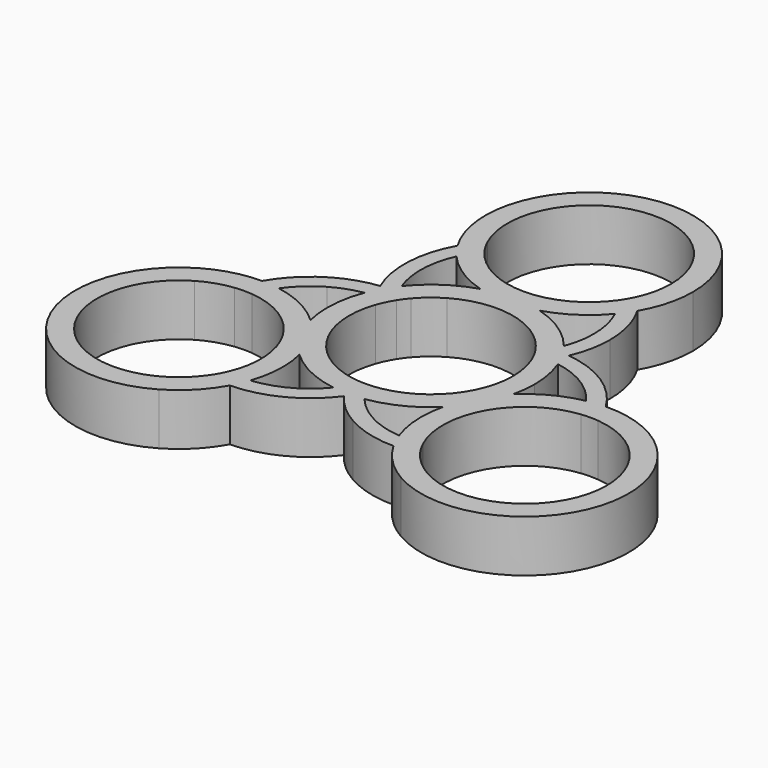
from build123d import *

# Parameters (mm, degrees)
F1_DEPTH = 7
F2_DEPTH = 7
F3_COUNT = 3


with BuildPart() as f1:
    # F0 (on Top) → F1 (new body)
    with BuildSketch(Plane.XY):
        with BuildLine():
            ThreePointArc((11.9814563539, 19.822065477), (13.3904833189, 23.2093401836), (13.8711614234, 26.8463630714))
            Line((13.8711614234, 26.8463630714), (10.9211614234, 26.8463630714))
            ThreePointArc((10.9211614234, 26.8463630714), (10.6899476462, 24.5977268922), (10.0059822983, 22.4431930958))
            ThreePointArc((10.0059822983, 22.4431930958), (11.0715600581, 21.1912957723), (11.9814563539, 19.822065477))
        make_face()
        with BuildLine():
            Line((10.9211614234, 26.8463630714), (13.8711614234, 26.8463630714))
            ThreePointArc((13.8711614234, 26.8463630714), (-0.1288385766, 40.8463630714), (-14.1288385766, 26.8463630714))
            Line((-14.1288385766, 26.8463630714), (-11.1788385766, 26.8463630714))
            ThreePointArc((-11.1788385766, 26.8463630714), (-0.1288385766, 37.8963630714), (10.9211614234, 26.8463630714))
        make_face()
        with BuildLine():
            Line((-11.1788385766, 26.8463630714), (-14.1288385766, 26.8463630714))
            ThreePointArc((-14.1288385766, 26.8463630714), (-13.6141173472, 23.0850791844), (-12.1078019368, 19.6003685354))
            ThreePointArc((-12.1078019368, 19.6003685354), (-11.2232600764, 20.9861133056), (-10.1809036398, 22.2574102536))
            ThreePointArc((-10.1809036398, 22.2574102536), (-10.9264730154, 24.4982594694), (-11.1788385766, 26.8463630714))
        make_face()
        with BuildLine():
            ThreePointArc((13.8638901362, 12.8469559189), (13.3850110996, 16.4592858558), (11.9814563539, 19.822065477))
            ThreePointArc((11.9814563539, 19.822065477), (11.3223593376, 18.7921674983), (10.5759119571, 17.8237073642))
            ThreePointArc((10.5759119571, 17.8237073642), (11.4068648101, 15.3967409836), (11.6883689483, 12.8469559189))
            ThreePointArc((11.6883689483, 12.8469559189), (11.5000217752, 10.7571071583), (10.9410503341, 8.7346103282))
            ThreePointArc((10.9410503341, 8.7346103282), (11.7016712993, 7.6857588306), (12.3620737952, 6.5710829764))
            ThreePointArc((12.3620737952, 6.5710829764), (13.4832096079, 9.6204239761), (13.8638901362, 12.8469559189))
        make_face()
        with BuildLine():
            ThreePointArc((10.5759119571, 17.8237073642), (11.3223593376, 18.7921674983), (11.9814563539, 19.822065477))
            ThreePointArc((11.9814563539, 19.822065477), (11.0715600581, 21.1912957723), (10.0059822983, 22.4431930958))
            ThreePointArc((10.0059822983, 22.4431930958), (9.4947756455, 21.4160270502), (8.879815604, 20.4474061365))
            ThreePointArc((8.879815604, 20.4474061365), (9.8159198522, 19.1924808087), (10.5759119571, 17.8237073642))
        make_face()
        with BuildLine():
            ThreePointArc((-10.1809036398, 22.2574102536), (-11.2232600764, 20.9861133056), (-12.1078019368, 19.6003685354))
            ThreePointArc((-12.1078019368, 19.6003685354), (-11.4298615634, 18.582775506), (-10.6657163684, 17.6282175746))
            ThreePointArc((-10.6657163684, 17.6282175746), (-9.9310448999, 19.010746625), (-9.0181957741, 20.2826881392))
            ThreePointArc((-9.0181957741, 20.2826881392), (-9.6508788607, 21.239826812), (-10.1809036398, 22.2574102536))
        make_face()
        with BuildLine():
            ThreePointArc((-10.6657163684, 17.6282175746), (-11.4298615634, 18.582775506), (-12.1078019368, 19.6003685354))
            ThreePointArc((-12.1078019368, 19.6003685354), (-13.8612508501, 13.1174639217), (-12.3620737952, 6.5710829764))
            ThreePointArc((-12.3620737952, 6.5710829764), (-11.7016712993, 7.6857588306), (-10.9410503341, 8.7346103282))
            ThreePointArc((-10.9410503341, 8.7346103282), (-11.6827716873, 13.2086386164), (-10.6657163684, 17.6282175746))
        make_face()
        with BuildLine():
            ThreePointArc((-10.4139033154, 3.695012549), (-11.478424483, 5.0717889691), (-12.3620737952, 6.5710829764))
            ThreePointArc((-12.3620737952, 6.5710829764), (-3.3860719771, -13.5843482201), (14, 0))
            ThreePointArc((14, 0), (13.5843482201, 3.3860719771), (12.3620737952, 6.5710829764))
            ThreePointArc((12.3620737952, 6.5710829764), (11.478424483, 5.0717889691), (10.4139033154, 3.695012549))
            ThreePointArc((10.4139033154, 3.695012549), (10.8898147743, 1.8746824217), (11.05, 0))
            ThreePointArc((11.05, 0), (-1.8746824217, -10.8898147743), (-10.4139033154, 3.695012549))
        make_face()
        with BuildLine():
            ThreePointArc((-10.9410503341, 8.7346103282), (-11.7016712993, 7.6857588306), (-12.3620737952, 6.5710829764))
            ThreePointArc((-12.3620737952, 6.5710829764), (-11.478424483, 5.0717889691), (-10.4139033154, 3.695012549))
            ThreePointArc((-10.4139033154, 3.695012549), (-9.9504776126, 4.8052570462), (-9.3690986882, 5.8585399009))
            ThreePointArc((-9.3690986882, 5.8585399009), (-10.2563874539, 7.2412012803), (-10.9410503341, 8.7346103282))
        make_face()
        with BuildLine():
            ThreePointArc((10.4139033154, 3.695012549), (11.478424483, 5.0717889691), (12.3620737952, 6.5710829764))
            ThreePointArc((12.3620737952, 6.5710829764), (11.7016712993, 7.6857588306), (10.9410503341, 8.7346103282))
            ThreePointArc((10.9410503341, 8.7346103282), (10.2563874539, 7.2412012803), (9.3690986882, 5.8585399009))
            ThreePointArc((9.3690986882, 5.8585399009), (9.9504776126, 4.8052570462), (10.4139033154, 3.695012549))
        make_face()
        with BuildLine():
            ThreePointArc((3.9122229389, 13.4422658684), (7.5626502677, 15.1484573034), (10.5759119571, 17.8237073642))
            ThreePointArc((10.5759119571, 17.8237073642), (9.8159198522, 19.1924808087), (8.879815604, 20.4474061365))
            ThreePointArc((8.879815604, 20.4474061365), (-0.0271481286, 15.7968309975), (-9.0181957741, 20.2826881392))
            ThreePointArc((-9.0181957741, 20.2826881392), (-9.9310448999, 19.010746625), (-10.6657163684, 17.6282175746))
            ThreePointArc((-10.6657163684, 17.6282175746), (-7.6557852491, 15.0419116318), (-4.0410615155, 13.404097203))
            ThreePointArc((-4.0410615155, 13.404097203), (-0.0671867283, 13.9998387828), (3.9122229389, 13.4422658684))
        make_face()
        with BuildLine():
            ThreePointArc((10.9410503341, 8.7346103282), (7.7907276234, 11.6320489639), (3.9122229389, 13.4422658684))
            ThreePointArc((3.9122229389, 13.4422658684), (-0.0616518483, 12.8465242886), (-4.0410615155, 13.404097203))
            ThreePointArc((-4.0410615155, 13.404097203), (-7.8464607172, 11.5945269077), (-10.9410503341, 8.7346103282))
            ThreePointArc((-10.9410503341, 8.7346103282), (-10.2563874539, 7.2412012803), (-9.3690986882, 5.8585399009))
            ThreePointArc((-9.3690986882, 5.8585399009), (0, 11.05), (9.3690986882, 5.8585399009))
            ThreePointArc((9.3690986882, 5.8585399009), (10.2563874539, 7.2412012803), (10.9410503341, 8.7346103282))
        make_face()
        with BuildLine():
            ThreePointArc((-4.0410615155, 13.404097203), (-0.0616518483, 12.8465242886), (3.9122229389, 13.4422658684))
            ThreePointArc((3.9122229389, 13.4422658684), (-0.0671867283, 13.9998387828), (-4.0410615155, 13.404097203))
        make_face()
    extrude(amount=F1_DEPTH)

    # F0 (on Top) → F2 (join)
    with BuildSketch(Plane.XY):
        with BuildLine():
            ThreePointArc((11.9814563539, 19.822065477), (13.3904833189, 23.2093401836), (13.8711614234, 26.8463630714))
            Line((13.8711614234, 26.8463630714), (10.9211614234, 26.8463630714))
            ThreePointArc((10.9211614234, 26.8463630714), (10.6899476462, 24.5977268922), (10.0059822983, 22.4431930958))
            ThreePointArc((10.0059822983, 22.4431930958), (11.0715600581, 21.1912957723), (11.9814563539, 19.822065477))
        make_face()
        with BuildLine():
            Line((10.9211614234, 26.8463630714), (13.8711614234, 26.8463630714))
            ThreePointArc((13.8711614234, 26.8463630714), (-0.1288385766, 40.8463630714), (-14.1288385766, 26.8463630714))
            Line((-14.1288385766, 26.8463630714), (-11.1788385766, 26.8463630714))
            ThreePointArc((-11.1788385766, 26.8463630714), (-0.1288385766, 37.8963630714), (10.9211614234, 26.8463630714))
        make_face()
        with BuildLine():
            Line((-11.1788385766, 26.8463630714), (-14.1288385766, 26.8463630714))
            ThreePointArc((-14.1288385766, 26.8463630714), (-13.6141173472, 23.0850791844), (-12.1078019368, 19.6003685354))
            ThreePointArc((-12.1078019368, 19.6003685354), (-11.2232600764, 20.9861133056), (-10.1809036398, 22.2574102536))
            ThreePointArc((-10.1809036398, 22.2574102536), (-10.9264730154, 24.4982594694), (-11.1788385766, 26.8463630714))
        make_face()
        with BuildLine():
            ThreePointArc((13.8638901362, 12.8469559189), (13.3850110996, 16.4592858558), (11.9814563539, 19.822065477))
            ThreePointArc((11.9814563539, 19.822065477), (11.3223593376, 18.7921674983), (10.5759119571, 17.8237073642))
            ThreePointArc((10.5759119571, 17.8237073642), (11.4068648101, 15.3967409836), (11.6883689483, 12.8469559189))
            ThreePointArc((11.6883689483, 12.8469559189), (11.5000217752, 10.7571071583), (10.9410503341, 8.7346103282))
            ThreePointArc((10.9410503341, 8.7346103282), (11.7016712993, 7.6857588306), (12.3620737952, 6.5710829764))
            ThreePointArc((12.3620737952, 6.5710829764), (13.4832096079, 9.6204239761), (13.8638901362, 12.8469559189))
        make_face()
        with BuildLine():
            ThreePointArc((10.5759119571, 17.8237073642), (11.3223593376, 18.7921674983), (11.9814563539, 19.822065477))
            ThreePointArc((11.9814563539, 19.822065477), (11.0715600581, 21.1912957723), (10.0059822983, 22.4431930958))
            ThreePointArc((10.0059822983, 22.4431930958), (9.4947756455, 21.4160270502), (8.879815604, 20.4474061365))
            ThreePointArc((8.879815604, 20.4474061365), (9.8159198522, 19.1924808087), (10.5759119571, 17.8237073642))
        make_face()
        with BuildLine():
            ThreePointArc((-10.1809036398, 22.2574102536), (-11.2232600764, 20.9861133056), (-12.1078019368, 19.6003685354))
            ThreePointArc((-12.1078019368, 19.6003685354), (-11.4298615634, 18.582775506), (-10.6657163684, 17.6282175746))
            ThreePointArc((-10.6657163684, 17.6282175746), (-9.9310448999, 19.010746625), (-9.0181957741, 20.2826881392))
            ThreePointArc((-9.0181957741, 20.2826881392), (-9.6508788607, 21.239826812), (-10.1809036398, 22.2574102536))
        make_face()
        with BuildLine():
            ThreePointArc((-10.6657163684, 17.6282175746), (-11.4298615634, 18.582775506), (-12.1078019368, 19.6003685354))
            ThreePointArc((-12.1078019368, 19.6003685354), (-13.8612508501, 13.1174639217), (-12.3620737952, 6.5710829764))
            ThreePointArc((-12.3620737952, 6.5710829764), (-11.7016712993, 7.6857588306), (-10.9410503341, 8.7346103282))
            ThreePointArc((-10.9410503341, 8.7346103282), (-11.6827716873, 13.2086386164), (-10.6657163684, 17.6282175746))
        make_face()
        with BuildLine():
            ThreePointArc((-10.4139033154, 3.695012549), (-11.478424483, 5.0717889691), (-12.3620737952, 6.5710829764))
            ThreePointArc((-12.3620737952, 6.5710829764), (-3.3860719771, -13.5843482201), (14, 0))
            ThreePointArc((14, 0), (13.5843482201, 3.3860719771), (12.3620737952, 6.5710829764))
            ThreePointArc((12.3620737952, 6.5710829764), (11.478424483, 5.0717889691), (10.4139033154, 3.695012549))
            ThreePointArc((10.4139033154, 3.695012549), (10.8898147743, 1.8746824217), (11.05, 0))
            ThreePointArc((11.05, 0), (-1.8746824217, -10.8898147743), (-10.4139033154, 3.695012549))
        make_face()
        with BuildLine():
            ThreePointArc((-10.9410503341, 8.7346103282), (-11.7016712993, 7.6857588306), (-12.3620737952, 6.5710829764))
            ThreePointArc((-12.3620737952, 6.5710829764), (-11.478424483, 5.0717889691), (-10.4139033154, 3.695012549))
            ThreePointArc((-10.4139033154, 3.695012549), (-9.9504776126, 4.8052570462), (-9.3690986882, 5.8585399009))
            ThreePointArc((-9.3690986882, 5.8585399009), (-10.2563874539, 7.2412012803), (-10.9410503341, 8.7346103282))
        make_face()
        with BuildLine():
            ThreePointArc((10.4139033154, 3.695012549), (11.478424483, 5.0717889691), (12.3620737952, 6.5710829764))
            ThreePointArc((12.3620737952, 6.5710829764), (11.7016712993, 7.6857588306), (10.9410503341, 8.7346103282))
            ThreePointArc((10.9410503341, 8.7346103282), (10.2563874539, 7.2412012803), (9.3690986882, 5.8585399009))
            ThreePointArc((9.3690986882, 5.8585399009), (9.9504776126, 4.8052570462), (10.4139033154, 3.695012549))
        make_face()
    extrude(amount=F2_DEPTH)

    # F3: F1 ×3 about axis
    f3_axis = Axis((0, 0, 0), (0, 0, 1))


with BuildPart() as f1_1:
    add(f1.part)
    for i in range(1, F3_COUNT):
        add(f1.part.rotate(f3_axis, i * 360 / F3_COUNT))


solid = f1_1.part
